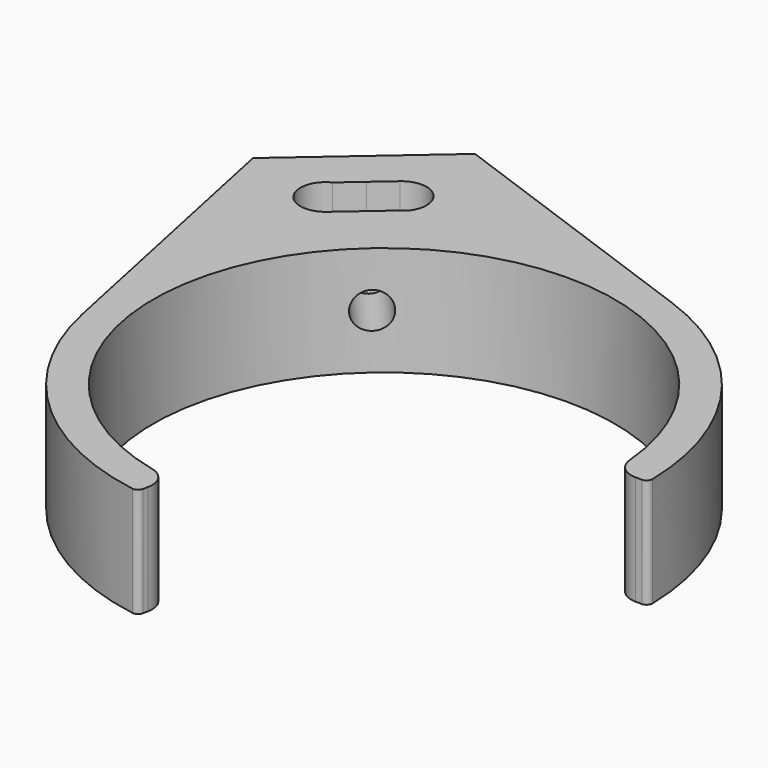
from build123d import *

# Parameters (mm, degrees)
F1_DEPTH = 25
F2_R     = 4.1301818337
F3_DEPTH = 100


with BuildPart() as f1:
    # F0 (on Top) → F1 (new body)
    with BuildSketch(Plane.XY):
        with BuildLine():
            ThreePointArc((-11.8732422152, -51.317779651), (-34.5382601184, 39.7692969136), (52.4750916265, 4.5665246966))
            ThreePointArc((52.4750916265, 4.5665246966), (54.0774628024, 1.3143944516), (57.4562661026, 0))
            Line((57.4562661026, 0), (58.8832582744, 0))
            ThreePointArc((58.8832582744, 0), (59.8641668401, 0.4130116778), (60.2542282129, 1.4032704246))
            ThreePointArc((60.2542282129, 1.4032704246), (48.9422337618, 35.1738388554), (20.5405661504, 56.662389004))
            ThreePointArc((20.5405661504, 56.662389004), (-0.9722097104, 60.2627247451), (-22.357653118, 55.9703183167))
            ThreePointArc((-22.357653118, 55.9703183167), (-39.5197577392, 45.5052736905), (-52.2859987864, 29.978584295))
            ThreePointArc((-52.2859987864, 29.978584295), (-59.5321694387, 9.4054232943), (-58.9812803638, -12.3995867702))
            ThreePointArc((-58.9812803638, -12.3995867702), (-41.7155504969, -43.5011957555), (-9.9179813794, -59.4489262374))
            ThreePointArc((-9.9179813794, -59.4489262374), (-8.9185295501, -59.2284594054), (-8.3500885012, -58.3773516818))
            Line((-8.3500885012, -58.3773516818), (-8.1064542321, -57.2139043997))
            ThreePointArc((-8.1064542321, -57.2139043997), (-8.786764538, -53.4972420783), (-11.8732422152, -51.317779651))
        make_face()
        with BuildLine():
            ThreePointArc((-22.357653118, 55.9703183167), (-0.9722097104, 60.2627247451), (20.5405661504, 56.662389004))
            Line((20.5405661504, 56.662389004), (-42.9458399328, 79.6767155568))
            Line((-42.9458399328, 79.6767155568), (-22.357653118, 55.9703183167))
        make_face()
        with BuildLine():
            Line((-72.8741856011, 53.6849815351), (-58.9812803638, -12.3995867702))
            ThreePointArc((-58.9812803638, -12.3995867702), (-59.5321694387, 9.4054232943), (-52.2859987864, 29.978584295))
            Line((-52.2859987864, 29.978584295), (-72.8741856011, 53.6849815351))
        make_face()
        with BuildLine():
            ThreePointArc((-52.2859987864, 29.978584295), (-39.5197577392, 45.5052736905), (-22.357653118, 55.9703183167))
            Line((-22.357653118, 55.9703183167), (-42.9458399328, 79.6767155568))
            Line((-42.9458399328, 79.6767155568), (-57.910012767, 66.680848546))
            Line((-57.910012767, 66.680848546), (-72.8741856011, 53.6849815351))
            Line((-72.8741856011, 53.6849815351), (-52.2859987864, 29.978584295))
        make_face()
        with BuildLine():
            Line((-55.9134628832, 55.172447865), (-51.3541472465, 59.1320559457))
            Line((-51.3541472465, 59.1320559457), (-46.7948316098, 63.0916640263))
            ThreePointArc((-46.7948316098, 63.0916640263), (-39.210764144, 63.0457975526), (-38.2846281265, 55.5183507652))
            Line((-38.2846281265, 55.5183507652), (-43.9458746166, 50.6017538162))
            Line((-43.9458746166, 50.6017538162), (-49.6071211066, 45.6851568672))
            ThreePointArc((-49.6071211066, 45.6851568672), (-58.1561290716, 46.8421101497), (-55.9134628832, 55.172447865))
        make_face(mode=Mode.SUBTRACT)
    extrude(amount=F1_DEPTH)

    # F2 (on face) → F3 (cut)
    with BuildSketch(Plane(origin=(-57.910012767, 66.680848546, 0), x_dir=(-0.7550165253, -0.6557057622, 0), z_dir=(-0.6557057622, 0.7550165253, 0))):
        with Locations((0, 12.5)):
            Circle(F2_R)
    extrude(amount=-F3_DEPTH, mode=Mode.SUBTRACT)


solid = f1.part
